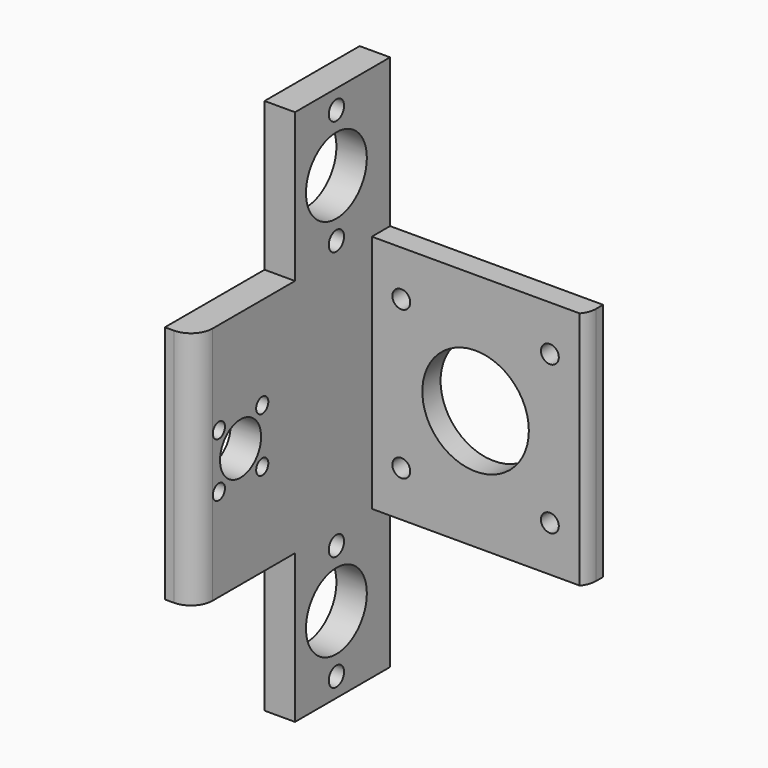
from build123d import *

# Parameters (mm, degrees)
PAD_DEPTH            = 56
PAD001_DEPTH         = 56
FILLET_R             = 4.5
SKETCH001_R          = 7.9375
SKETCH001_R_2        = 2
POCKET_DEPTH         = 50.801
LINEARPATTERN_COUNT  = 2
LINEARPATTERN_PITCH  = 80
SKETCH002_R          = 5.357812
SKETCH002_R_2        = 1.5875
POCKET001_DEPTH      = 50.801
POCKET001_DEPTH_BACK = 0.001
SKETCH003_W          = 60
SKETCH003_H          = 51.1187
POCKET002_DEPTH      = 266.123378
POCKET002_DEPTH_BACK = 316.923378
SKETCH004_R          = 1.865
SKETCH004_R_2        = 11.1125
POCKET003_DEPTH      = 0.001
POCKET003_DEPTH_BACK = 50.801
SKETCH005_W          = 60
SKETCH005_H          = 12.25
POCKET004_DEPTH      = 56.001
POCKET004_DEPTH_BACK = 56.001
SKETCH006_W          = 37.3666
SKETCH006_H          = 44.7638
POCKET005_DEPTH      = 266.123378
POCKET005_DEPTH_BACK = 316.923378


with BuildPart() as part:
    # Sketch → Pad (new body)
    with BuildSketch(Plane.XY):
        Polygon((0, 0), (50.8, 0), (50.8, -6.35), (6.35, -6.35), (6.35, -50.8), (0, -50.8), align=None)
    extrude(amount=-PAD_DEPTH)

    # Sketch → Pad001 (join)
    with BuildSketch(Plane.XY):
        Polygon((0, 0), (50.8, 0), (50.8, -6.35), (6.35, -6.35), (6.35, -50.8), (0, -50.8), align=None)
    extrude(amount=PAD001_DEPTH)

    # Fillet
    fillet_edges = [part.edges().sort_by_distance(p)[0] for p in [
        (6.35, -50.8, 0),
        (6.35, -6.35, 0),
        (50.8, -6.35, 0),
    ]]
    fillet(fillet_edges, radius=FILLET_R)

    # Sketch001 → Pocket (cut, through all)
    with BuildSketch(Plane.YZ):
        with Locations((-14, -40)):
            Circle(SKETCH001_R)
        with Locations((-14, -28)):
            Circle(SKETCH001_R_2)
        with Locations((-14, -52)):
            Circle(SKETCH001_R_2)
    pocket = extrude(amount=POCKET_DEPTH, mode=Mode.SUBTRACT)

    # LinearPattern: Pocket ×2
    with Locations(*[(0, 0, i * LINEARPATTERN_PITCH) for i in range(1, LINEARPATTERN_COUNT)]):
        add(pocket, mode=Mode.SUBTRACT)

    # Sketch002 → Pocket001 (cut, two sides)
    with BuildSketch(Plane.YZ) as pocket001_sk:
        with Locations((-39, 0)):
            Circle(SKETCH002_R)
        with Locations((-44.656854, 5.656854)):
            Circle(SKETCH002_R_2)
        with Locations((-33.343146, 5.656854)):
            Circle(SKETCH002_R_2)
        with Locations((-33.343146, -5.656854)):
            Circle(SKETCH002_R_2)
        with Locations((-44.656854, -5.656854)):
            Circle(SKETCH002_R_2)
    extrude(amount=POCKET001_DEPTH, mode=Mode.SUBTRACT)
    extrude(pocket001_sk.sketch, amount=-POCKET001_DEPTH_BACK, mode=Mode.SUBTRACT)

    # Sketch003 → Pocket002 (cut, two sides)
    with BuildSketch(Plane.XZ) as pocket002_sk:
        with Locations((36.35, 50.55935)):
            Rectangle(SKETCH003_W, SKETCH003_H)
    pocket002 = extrude(amount=-POCKET002_DEPTH, mode=Mode.SUBTRACT) + extrude(pocket002_sk.sketch, amount=POCKET002_DEPTH_BACK, mode=Mode.SUBTRACT)

    # Mirrored001: Pocket002 across Sketch003 H_Axis
    add(pocket002.mirror(Plane(origin=(0, 0, 0), x_dir=(0, -1, 0), z_dir=(0, 0, 1))), mode=Mode.SUBTRACT)

    # Sketch004 → Pocket003 (cut, two sides)
    with BuildSketch(Plane.XZ) as pocket003_sk:
        with Locations((43.5, 15.5)):
            Circle(SKETCH004_R)
        with Locations((43.5, -15.5)):
            Circle(SKETCH004_R)
        with Locations((12.5, 15.5)):
            Circle(SKETCH004_R)
        with Locations((12.5, -15.5)):
            Circle(SKETCH004_R)
        with Locations((28, 0)):
            Circle(SKETCH004_R_2)
    extrude(amount=-POCKET003_DEPTH, mode=Mode.SUBTRACT)
    extrude(pocket003_sk.sketch, amount=POCKET003_DEPTH_BACK, mode=Mode.SUBTRACT)

    # Sketch005 → Pocket004 (cut, two sides)
    with BuildSketch(Plane.XY) as pocket004_sk:
        with Locations((36.35, -10.8875)):
            Rectangle(SKETCH005_W, SKETCH005_H)
    extrude(amount=-POCKET004_DEPTH, mode=Mode.SUBTRACT)
    extrude(pocket004_sk.sketch, amount=POCKET004_DEPTH_BACK, mode=Mode.SUBTRACT)

    # Sketch006 → Pocket005 (cut, two sides)
    with BuildSketch(Plane.YZ) as pocket005_sk:
        with Locations((-43.4833, 47.3819)):
            Rectangle(SKETCH006_W, SKETCH006_H)
    pocket005 = extrude(amount=-POCKET005_DEPTH, mode=Mode.SUBTRACT) + extrude(pocket005_sk.sketch, amount=POCKET005_DEPTH_BACK, mode=Mode.SUBTRACT)

    # Mirrored: Pocket005 across Sketch006 H_Axis
    add(pocket005.mirror(Plane.XY), mode=Mode.SUBTRACT)


solid = part.part
